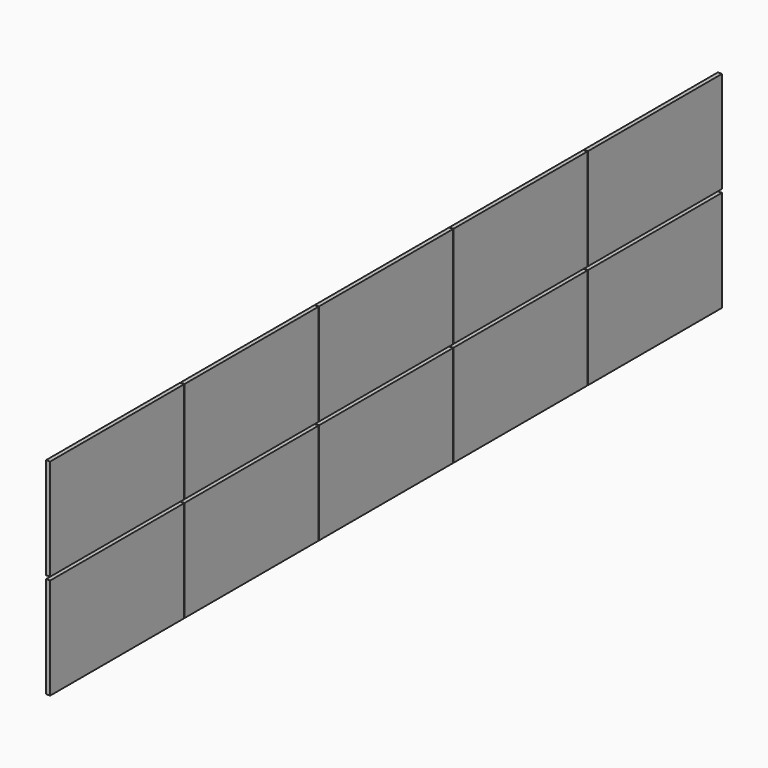
from build123d import *

# Parameters (mm, degrees)
CYLINDER003_R           = 4.5
CYLINDER003_DEPTH       = 10
CYLINDER003_PITCH_ANGLE = 90
CYLINDER002_R           = 4.5
CYLINDER002_DEPTH       = 10
CYLINDER002_PITCH_ANGLE = 90
CYLINDER001_R           = 4.5
CYLINDER001_DEPTH       = 10
CYLINDER001_PITCH_ANGLE = 90
CYLINDER_R              = 4.5
CYLINDER_DEPTH          = 10
CYLINDER_PITCH_ANGLE    = 90
SKETCH002_W             = 970
SKETCH002_H             = 1618
PAD002_DEPTH            = 27
SKETCH001_W             = 922
SKETCH001_H             = 1570
PAD001_DEPTH            = 20
SKETCH_W                = 992
SKETCH_H                = 1640
PAD_DEPTH               = 40
CUT003_ROLL_ANGLE       = 90.0000000001
ARRAY_Y_COUNT           = 5
ARRAY_Y_PITCH           = 1645
ARRAY_Z_COUNT           = 2
ARRAY_Z_PITCH           = 1025


with BuildPart() as cylinder003:
    # Cylinder003 → Cylinder003 (new body)
    with BuildSketch(Plane.XY):
        Circle(CYLINDER003_R)
    extrude(amount=CYLINDER003_DEPTH)


with BuildPart() as cylinder003_1:
    # Cylinder003 pitch: moved
    add(cylinder003.part.rotate(Axis((0, 0, 0), (0, 1, 0)), CYLINDER003_PITCH_ANGLE))


with BuildPart() as cylinder003_2:
    # Cylinder003 placement: moved
    add(cylinder003_1.part.moved(Location((0, 25, 1220))))


with BuildPart() as fusion001:
    # Cylinder002 → Cylinder002 (new body)
    with BuildSketch(Plane.XY):
        Circle(CYLINDER002_R)
    extrude(amount=CYLINDER002_DEPTH)


with BuildPart() as fusion001_1:
    # Cylinder002 pitch: moved
    add(fusion001.part.rotate(Axis((0, 0, 0), (0, 1, 0)), CYLINDER002_PITCH_ANGLE))


with BuildPart() as fusion001_2:
    # Cylinder002 placement: moved
    add(fusion001_1.part.moved(Location((0, 25, 420))))

    # Fusion001: union Cylinder003
    add(cylinder003_2.part)


with BuildPart() as fusion001_3:
    # Fusion001 placement: moved
    add(fusion001_2.part.moved(Location((0, 942, 0))))


with BuildPart() as cylinder001:
    # Cylinder001 → Cylinder001 (new body)
    with BuildSketch(Plane.XY):
        Circle(CYLINDER001_R)
    extrude(amount=CYLINDER001_DEPTH)


with BuildPart() as cylinder001_1:
    # Cylinder001 pitch: moved
    add(cylinder001.part.rotate(Axis((0, 0, 0), (0, 1, 0)), CYLINDER001_PITCH_ANGLE))


with BuildPart() as cylinder001_2:
    # Cylinder001 placement: moved
    add(cylinder001_1.part.moved(Location((0, 25, 1220))))


with BuildPart() as fusion:
    # Cylinder → Cylinder (new body)
    with BuildSketch(Plane.XY):
        Circle(CYLINDER_R)
    extrude(amount=CYLINDER_DEPTH)


with BuildPart() as fusion_1:
    # Cylinder pitch: moved
    add(fusion.part.rotate(Axis((0, 0, 0), (0, 1, 0)), CYLINDER_PITCH_ANGLE))


with BuildPart() as fusion_2:
    # Cylinder placement: moved
    add(fusion_1.part.moved(Location((0, 25, 420))))

    # Fusion: union Cylinder001
    add(cylinder001_2.part)


with BuildPart() as obj1:
    # Sketch002 → Pad002 (new body)
    with BuildSketch(Plane.YZ.offset(3)):
        with Locations((496, 820)):
            Rectangle(SKETCH002_W, SKETCH002_H)
    extrude(amount=PAD002_DEPTH)


with BuildPart() as obj2:
    # Sketch001 → Pad001 (new body)
    with BuildSketch(Plane.YZ):
        with Locations((496, 820)):
            Rectangle(SKETCH001_W, SKETCH001_H)
    extrude(amount=PAD001_DEPTH)


with BuildPart() as obj3:
    # Sketch → Pad (new body)
    with BuildSketch(Plane.YZ):
        with Locations((496, 820)):
            Rectangle(SKETCH_W, SKETCH_H)
    extrude(amount=PAD_DEPTH)

    # Cut: cut obj2
    add(obj2.part, mode=Mode.SUBTRACT)

    # Cut001: cut obj1
    add(obj1.part, mode=Mode.SUBTRACT)

    # Cut002: cut Fusion
    add(fusion_2.part, mode=Mode.SUBTRACT)

    # Cut003: cut Fusion001
    add(fusion001_3.part, mode=Mode.SUBTRACT)


with BuildPart() as obj3_1:
    # Cut003 roll: moved
    add(obj3.part.rotate(Axis((0, 0, 0), (1, 0, 0)), CUT003_ROLL_ANGLE))


with BuildPart() as obj3_2:
    # Cut003 placement: moved
    add(obj3_1.part.moved(Location((-1.5e-09, -1305.59, 0))))

    # Array Y: obj3_5


with BuildPart() as obj3_3:
    add(obj3_2.part)
    with Locations(*[(0, i * ARRAY_Y_PITCH, 0) for i in range(1, ARRAY_Y_COUNT)]):
        add(obj3_2.part)

    # Array Z: obj3_2


with BuildPart() as obj3_4:
    add(obj3_3.part)
    with Locations(*[(0, 0, i * ARRAY_Z_PITCH) for i in range(1, ARRAY_Z_COUNT)]):
        add(obj3_3.part)


with BuildPart() as obj3_5:
    # Array placement: moved
    add(obj3_4.part.moved(Location((117.5, 3050.59, 483))))


solid = obj3_5.part
